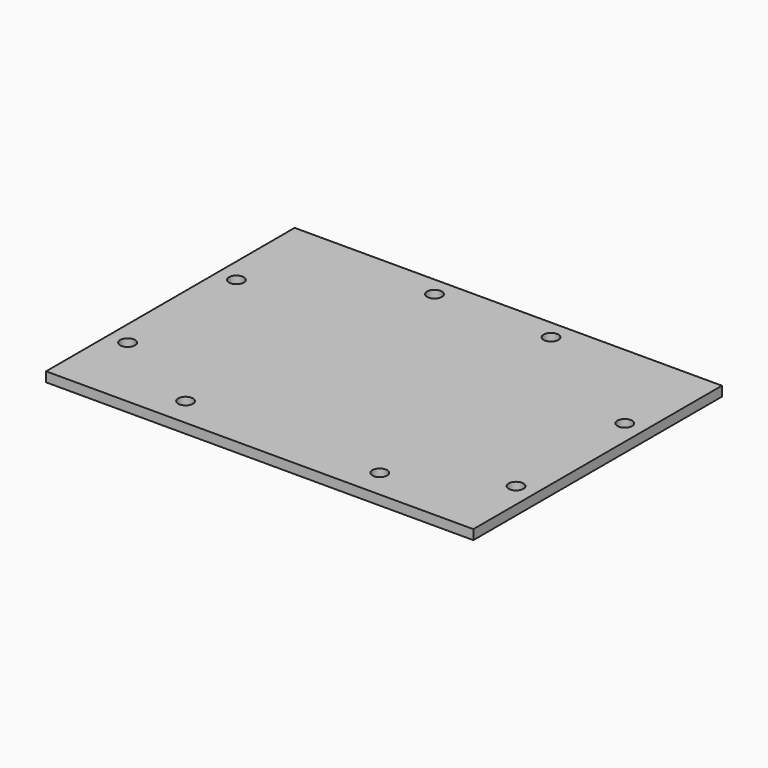
from build123d import *

# Parameters (mm, degrees)
F0_W      = 139.7
F0_H      = 101.6
F1_DEPTH  = 1.5875
F2_R      = 2.413
F3_DEPTH  = 1.5875
F4_R      = 2.413
F5_DEPTH  = 1.5875
F6_R      = 2.413
F7_DEPTH  = 1.5875
F8_R      = 2.413
F9_DEPTH  = 1.5875
F10_R     = 2.413
F11_DEPTH = 1.5875
F12_R     = 2.413
F13_DEPTH = 1.5875
F14_R     = 2.413
F15_DEPTH = 1.5875
F16_R     = 2.413
F17_DEPTH = 1.5875


with BuildPart() as f1:
    # F0 (on Top) → F1 (new body, symmetric)
    with BuildSketch(Plane.XY):
        Rectangle(F0_W, F0_H)
    extrude(amount=F1_DEPTH, both=True)

    # F2 (on Top) → F3 (cut, symmetric)
    with BuildSketch(Plane.XY):
        with Locations((-63.5, 19.05)):
            Circle(F2_R)
    extrude(amount=F3_DEPTH, both=True, mode=Mode.SUBTRACT)

    # F4 (on Top) → F5 (cut, symmetric)
    with BuildSketch(Plane.XY):
        with Locations((-63.5, -25.4)):
            Circle(F4_R)
    extrude(amount=F5_DEPTH, both=True, mode=Mode.SUBTRACT)

    # F6 (on Top) → F7 (cut, symmetric)
    with BuildSketch(Plane.XY):
        with Locations((63.5, -25.4)):
            Circle(F6_R)
    extrude(amount=F7_DEPTH, both=True, mode=Mode.SUBTRACT)

    # F8 (on Top) → F9 (cut, symmetric)
    with BuildSketch(Plane.XY):
        with Locations((63.5, 19.05)):
            Circle(F8_R)
    extrude(amount=F9_DEPTH, both=True, mode=Mode.SUBTRACT)

    # F10 (on Top) → F11 (cut, symmetric)
    with BuildSketch(Plane.XY):
        with Locations((19.05, 44.45)):
            Circle(F10_R)
    extrude(amount=F11_DEPTH, both=True, mode=Mode.SUBTRACT)

    # F12 (on Top) → F13 (cut, symmetric)
    with BuildSketch(Plane.XY):
        with Locations((-19.05, 44.45)):
            Circle(F12_R)
    extrude(amount=F13_DEPTH, both=True, mode=Mode.SUBTRACT)

    # F14 (on Top) → F15 (cut, symmetric)
    with BuildSketch(Plane.XY):
        with Locations((31.75, -41.402)):
            Circle(F14_R)
    extrude(amount=F15_DEPTH, both=True, mode=Mode.SUBTRACT)

    # F16 (on Top) → F17 (cut, symmetric)
    with BuildSketch(Plane.XY):
        with Locations((-31.75, -41.402)):
            Circle(F16_R)
    extrude(amount=F17_DEPTH, both=True, mode=Mode.SUBTRACT)


solid = f1.part
